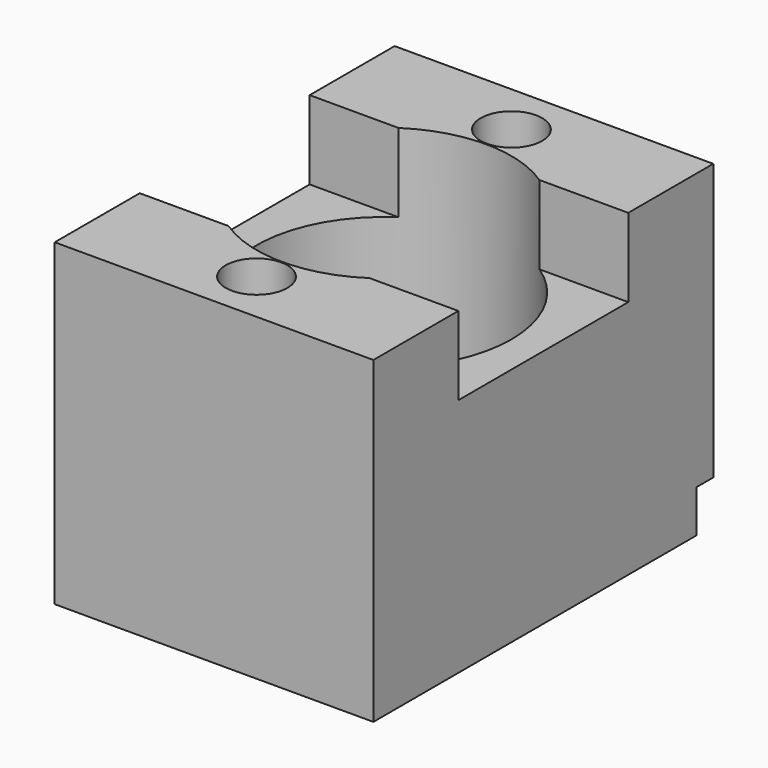
from build123d import *

# Parameters (mm, degrees)
F0_W           = 15
F0_H           = 20
F1_DEPTH       = 15
F3_D           = 7
F3_CBORE_D     = 12
F3_CBORE_DEPTH = 11
F4_D           = 2.9
F5_W           = 10
F5_H           = 3.7
F6_DEPTH       = 15.001
F7_W           = 1
F7_H           = 2
F8_DEPTH       = 15.001


with BuildPart() as f1:
    # F0 (on Top) → F1 (new body)
    with BuildSketch(Plane.XY):
        Rectangle(F0_W, F0_H)
    extrude(amount=F1_DEPTH)

    # F3 (through all)
    with Locations(Plane.XY.offset(15)):
        with Locations((0, 0)):
            CounterBoreHole(F3_D / 2, F3_CBORE_D / 2, F3_CBORE_DEPTH)

    # F4 (through all)
    with Locations(Plane.XY.offset(15)):
        with Locations((0, -7.5), (0, 7.5)):
            Hole(F4_D / 2)

    # F5 (on face) → F6 (cut, through all)
    with BuildSketch(Plane.YZ.offset(7.5)):
        with Locations((0, 13.15)):
            Rectangle(F5_W, F5_H)
    extrude(amount=-F6_DEPTH, mode=Mode.SUBTRACT)

    # F7 (on face) → F8 (cut, through all)
    with BuildSketch(Plane.YZ.offset(7.5)):
        with Locations((9.5, 1)):
            Rectangle(F7_W, F7_H)
    extrude(amount=-F8_DEPTH, mode=Mode.SUBTRACT)


solid = f1.part
